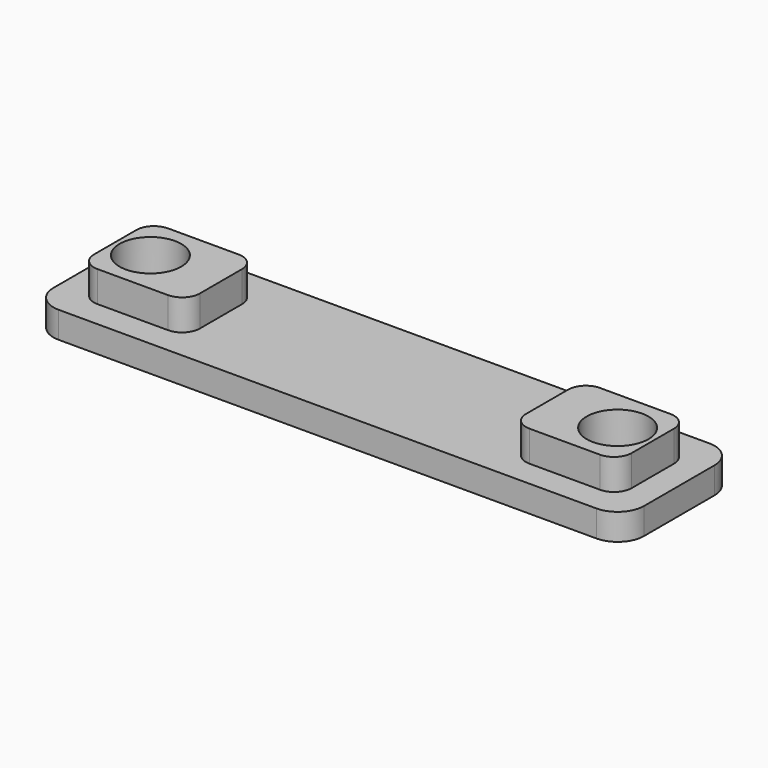
from build123d import *

# Parameters (mm, degrees)
F0_W     = 67
F0_H     = 16
F0_R     = 3.5
F1_DEPTH = 3
F3_DEPTH = 3.5
F4_R     = 3.5
F5_DEPTH = 6.501
F6_R     = 3


with BuildPart() as f1:
    # F0 (on Top) → F1 (new body)
    with BuildSketch(Plane.XY):
        Rectangle(F0_W, F0_H)
        with Locations((-26.5, 0)):
            Circle(F0_R, mode=Mode.SUBTRACT)
        with Locations((26.5, 0)):
            Circle(F0_R, mode=Mode.SUBTRACT)
    extrude(amount=F1_DEPTH)

    # F2 (on face) → F3 (join)
    with BuildSketch(Plane.XY.offset(3)):
        with BuildLine():
            Line((20.5, -5), (28.5, -5))
            ThreePointArc((28.5, -5), (29.914214, -4.414214), (30.5, -3))
            Line((30.5, -3), (30.5, 3))
            ThreePointArc((30.5, 3), (29.914214, 4.414214), (28.5, 5))
            Line((28.5, 5), (20.5, 5))
            ThreePointArc((20.5, 5), (19.085786, 4.414214), (18.5, 3))
            Line((18.5, 3), (18.5, -3))
            ThreePointArc((18.5, -3), (19.085786, -4.414214), (20.5, -5))
        make_face()
        with BuildLine():
            Line((-28.5, -5), (-20.5, -5))
            ThreePointArc((-20.5, -5), (-19.085786, -4.414214), (-18.5, -3))
            Line((-18.5, -3), (-18.5, 3))
            ThreePointArc((-18.5, 3), (-19.085786, 4.414214), (-20.5, 5))
            Line((-20.5, 5), (-28.5, 5))
            ThreePointArc((-28.5, 5), (-29.914214, 4.414214), (-30.5, 3))
            Line((-30.5, 3), (-30.5, -3))
            ThreePointArc((-30.5, -3), (-29.914214, -4.414214), (-28.5, -5))
        make_face()
    extrude(amount=F3_DEPTH)

    # F4 (on face) → F5 (cut, through all)
    with BuildSketch(Plane.XY.offset(6.5)):
        with Locations((26.5, 0)):
            Circle(F4_R)
        with Locations((-26.5, 0)):
            Circle(F4_R)
    extrude(amount=-F5_DEPTH, mode=Mode.SUBTRACT)

    # F6
    f6_edges = [f1.edges().sort_by_distance(p)[0] for p in [
        (-33.5, 8, 1.5),
        (33.5, 8, 1.5),
        (33.5, -8, 1.5),
        (-33.5, -8, 1.5),
    ]]
    fillet(f6_edges, radius=F6_R)


solid = f1.part
